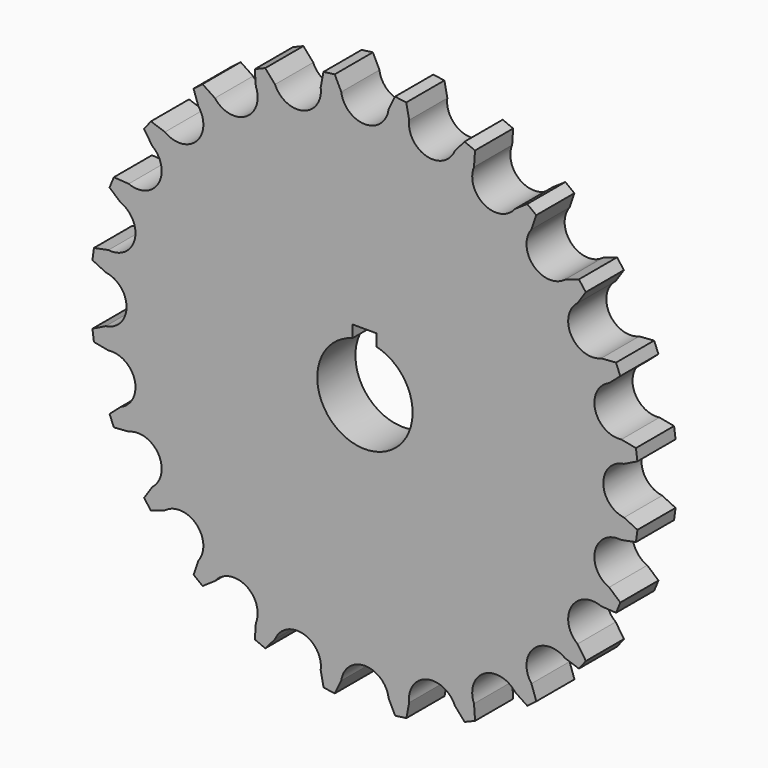
from build123d import *

# Parameters (mm, degrees)
F1_DEPTH = 6.35


with BuildPart() as f1:
    # F0 (on Front) → F1 (new body)
    with BuildSketch(Plane.XZ):
        with BuildLine():
            ThreePointArc((3.147837, 34.510579), (0, 31.75), (-3.147837, 34.510579))
            Line((-3.147837, 34.510579), (-4.022344, 36.290266))
            Line((-4.022344, 36.290266), (-5.520025, 36.093734))
            Line((-5.520025, 36.093734), (-5.891418, 34.14938))
            ThreePointArc((-5.891418, 34.14938), (-8.217505, 30.668145), (-11.972573, 32.51994))
            Line((-11.972573, 32.51994), (-13.277898, 34.012646))
            Line((-13.277898, 34.012646), (-14.673681, 33.435182))
            Line((-14.673681, 33.435182), (-14.529182, 31.460957))
            ThreePointArc((-14.529182, 31.460957), (-15.875, 27.496307), (-19.981397, 28.31312))
            Line((-19.981397, 28.31312), (-21.628585, 29.41712))
            Line((-21.628585, 29.41712), (-22.827349, 28.498078))
            Line((-22.827349, 28.498078), (-22.176807, 26.628522))
            ThreePointArc((-22.176807, 26.628522), (-22.45064, 22.45064), (-26.628522, 22.176807))
            Line((-26.628522, 22.176807), (-28.50532, 22.816867))
            Line((-28.50532, 22.816867), (-29.425371, 21.618877))
            Line((-29.425371, 21.618877), (-28.31312, 19.981397))
            ThreePointArc((-28.31312, 19.981397), (-27.496307, 15.875), (-31.460957, 14.529182))
            Line((-31.460957, 14.529182), (-33.439464, 14.661681))
            Line((-33.439464, 14.661681), (-34.018103, 13.266385))
            Line((-34.018103, 13.266385), (-32.51994, 11.972573))
            ThreePointArc((-32.51994, 11.972573), (-30.668145, 8.217505), (-34.14938, 5.891418))
            Line((-34.14938, 5.891418), (-36.094764, 5.507326))
            Line((-36.094764, 5.507326), (-36.292557, 4.009811))
            Line((-36.292557, 4.009811), (-34.510579, 3.147837))
            ThreePointArc((-34.510579, 3.147837), (-31.75, 0), (-34.510579, -3.147837))
            Line((-34.510579, -3.147837), (-36.290266, -4.022344))
            Line((-36.290266, -4.022344), (-36.093734, -5.520025))
            Line((-36.093734, -5.520025), (-34.14938, -5.891418))
            ThreePointArc((-34.14938, -5.891418), (-30.668145, -8.217505), (-32.51994, -11.972573))
            Line((-32.51994, -11.972573), (-34.012646, -13.277898))
            Line((-34.012646, -13.277898), (-33.435182, -14.673681))
            Line((-33.435182, -14.673681), (-31.460957, -14.529182))
            ThreePointArc((-31.460957, -14.529182), (-27.496307, -15.875), (-28.31312, -19.981397))
            Line((-28.31312, -19.981397), (-29.41712, -21.628585))
            Line((-29.41712, -21.628585), (-28.498078, -22.827349))
            Line((-28.498078, -22.827349), (-26.628522, -22.176807))
            ThreePointArc((-26.628522, -22.176807), (-22.45064, -22.45064), (-22.176807, -26.628522))
            Line((-22.176807, -26.628522), (-22.816867, -28.50532))
            Line((-22.816867, -28.50532), (-21.618877, -29.425371))
            Line((-21.618877, -29.425371), (-19.981397, -28.31312))
            ThreePointArc((-19.981397, -28.31312), (-15.875, -27.496307), (-14.529182, -31.460957))
            Line((-14.529182, -31.460957), (-14.661681, -33.439464))
            Line((-14.661681, -33.439464), (-13.266385, -34.018103))
            Line((-13.266385, -34.018103), (-11.972573, -32.51994))
            ThreePointArc((-11.972573, -32.51994), (-8.217505, -30.668145), (-5.891418, -34.14938))
            Line((-5.891418, -34.14938), (-5.507326, -36.094764))
            Line((-5.507326, -36.094764), (-4.009811, -36.292557))
            Line((-4.009811, -36.292557), (-3.147837, -34.510579))
            ThreePointArc((-3.147837, -34.510579), (0, -31.75), (3.147837, -34.510579))
            Line((3.147837, -34.510579), (4.022344, -36.290266))
            Line((4.022344, -36.290266), (5.520025, -36.093734))
            Line((5.520025, -36.093734), (5.891418, -34.14938))
            ThreePointArc((5.891418, -34.14938), (8.217505, -30.668145), (11.972573, -32.51994))
            Line((11.972573, -32.51994), (13.277898, -34.012646))
            Line((13.277898, -34.012646), (14.673681, -33.435182))
            Line((14.673681, -33.435182), (14.529182, -31.460957))
            ThreePointArc((14.529182, -31.460957), (15.875, -27.496307), (19.981397, -28.31312))
            Line((19.981397, -28.31312), (21.628585, -29.41712))
            Line((21.628585, -29.41712), (22.827349, -28.498078))
            Line((22.827349, -28.498078), (22.176807, -26.628522))
            ThreePointArc((22.176807, -26.628522), (22.45064, -22.45064), (26.628522, -22.176807))
            Line((26.628522, -22.176807), (28.50532, -22.816867))
            Line((28.50532, -22.816867), (29.425371, -21.618877))
            Line((29.425371, -21.618877), (28.31312, -19.981397))
            ThreePointArc((28.31312, -19.981397), (27.496307, -15.875), (31.460957, -14.529182))
            Line((31.460957, -14.529182), (33.439464, -14.661681))
            Line((33.439464, -14.661681), (34.018103, -13.266385))
            Line((34.018103, -13.266385), (32.51994, -11.972573))
            ThreePointArc((32.51994, -11.972573), (30.668145, -8.217505), (34.14938, -5.891418))
            Line((34.14938, -5.891418), (36.094764, -5.507326))
            Line((36.094764, -5.507326), (36.292557, -4.009811))
            Line((36.292557, -4.009811), (34.510579, -3.147837))
            ThreePointArc((34.510579, -3.147837), (31.75, 0), (34.510579, 3.147837))
            Line((34.510579, 3.147837), (36.290266, 4.022344))
            Line((36.290266, 4.022344), (36.093734, 5.520025))
            Line((36.093734, 5.520025), (34.14938, 5.891418))
            ThreePointArc((34.14938, 5.891418), (30.668145, 8.217505), (32.51994, 11.972573))
            Line((32.51994, 11.972573), (34.012646, 13.277898))
            Line((34.012646, 13.277898), (33.435182, 14.673681))
            Line((33.435182, 14.673681), (31.460957, 14.529182))
            ThreePointArc((31.460957, 14.529182), (27.496307, 15.875), (28.31312, 19.981397))
            Line((28.31312, 19.981397), (29.41712, 21.628585))
            Line((29.41712, 21.628585), (28.498078, 22.827349))
            Line((28.498078, 22.827349), (26.628522, 22.176807))
            ThreePointArc((26.628522, 22.176807), (22.45064, 22.45064), (22.176807, 26.628522))
            Line((22.176807, 26.628522), (22.816867, 28.50532))
            Line((22.816867, 28.50532), (21.618877, 29.425371))
            Line((21.618877, 29.425371), (19.981397, 28.31312))
            ThreePointArc((19.981397, 28.31312), (15.875, 27.496307), (14.529182, 31.460957))
            Line((14.529182, 31.460957), (14.661681, 33.439464))
            Line((14.661681, 33.439464), (13.266385, 34.018103))
            Line((13.266385, 34.018103), (11.972573, 32.51994))
            ThreePointArc((11.972573, 32.51994), (8.217505, 30.668145), (5.891418, 34.14938))
            Line((5.891418, 34.14938), (5.507326, 36.094764))
            Line((5.507326, 36.094764), (4.009811, 36.292557))
            Line((4.009811, 36.292557), (3.147837, 34.510579))
        make_face()
        with BuildLine():
            ThreePointArc((1.524, 6.164408), (0.065583, -6.349661), (-1.651, 6.131615))
            Line((-1.651, 6.131615), (-1.651, 7.739208))
            Line((-1.651, 7.739208), (1.524, 7.739208))
            Line((1.524, 7.739208), (1.524, 6.164408))
        make_face(mode=Mode.SUBTRACT)
    extrude(amount=F1_DEPTH)


solid = f1.part
